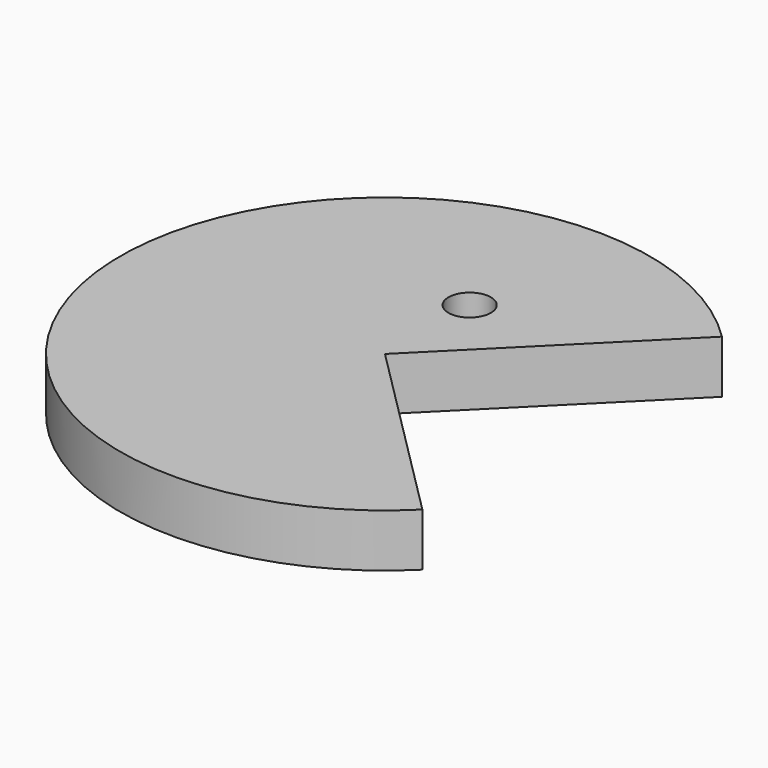
from build123d import *

# Parameters (mm, degrees)
CYLINDER001_R            = 2
CYLINDER001_DEPTH        = 10
CYLINDER_W               = 25
CYLINDER_H               = 5
CYLINDER_ANGLE           = 270
CYLINDER_PLACEMENT_ANGLE = 45


with BuildPart() as cilindre001:
    # Cylinder001 → Cylinder001 (new body)
    with BuildSketch(Plane(origin=(0, 10, -2), x_dir=(1, 0, 0), z_dir=(0, 0, 1))):
        Circle(CYLINDER001_R)
    extrude(amount=CYLINDER001_DEPTH)


with BuildPart() as cut:
    # Cylinder → Cylinder (revolve)
    with BuildSketch(Plane.XZ):
        with Locations((12.5, 2.5)):
            Rectangle(CYLINDER_W, CYLINDER_H)
    revolve(axis=Axis((0, 0, 0), (0, 0, 1)), revolution_arc=CYLINDER_ANGLE)


with BuildPart() as cut_1:
    # Cylinder placement: moved
    add(cut.part.rotate(Axis((0, 0, 0), (0, 0, 1)), CYLINDER_PLACEMENT_ANGLE))

    # Cut: cut Cilindre001
    add(cilindre001.part, mode=Mode.SUBTRACT)


solid = cut_1.part
